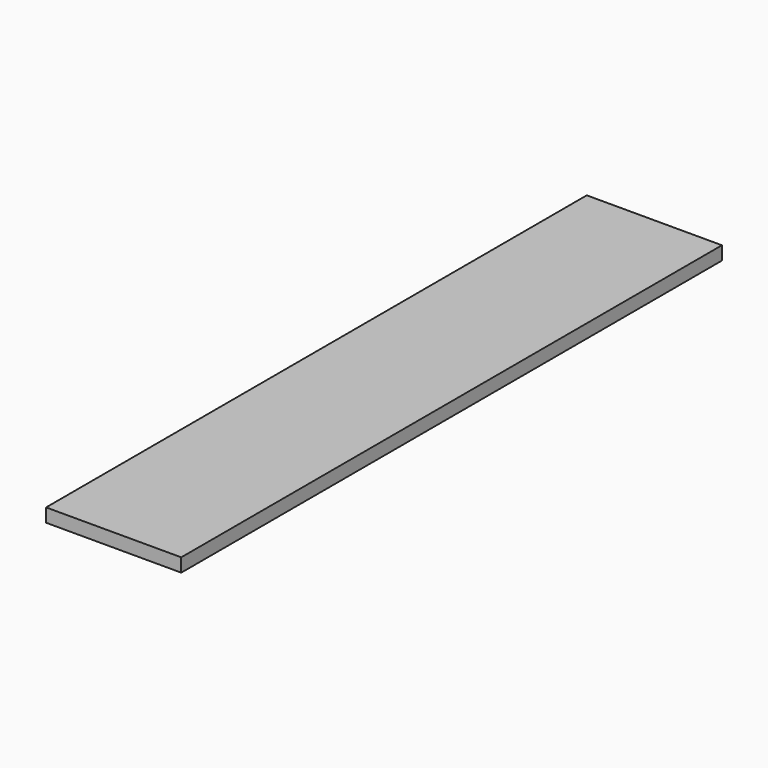
from build123d import *

# Parameters (mm, degrees)
F0_W     = 190.5
F0_H     = 19.05
F1_DEPTH = 209.55
F2_DEPTH = 457.2
F3_DEPTH = 476.25


with BuildPart() as f1:
    # F0 (on Front) → F1 (new body, symmetric)
    with BuildSketch(Plane.XZ):
        Rectangle(F0_W, F0_H)
    extrude(amount=F1_DEPTH, both=True)


with BuildPart() as f2:
    # F0 (on Front) → F2 (new body, symmetric)
    with BuildSketch(Plane.XZ):
        Rectangle(F0_W, F0_H)
    extrude(amount=F2_DEPTH, both=True)


with BuildPart() as f3:
    # F0 (on Front) → F3 (new body, symmetric)
    with BuildSketch(Plane.XZ):
        Rectangle(F0_W, F0_H)
    extrude(amount=F3_DEPTH, both=True)


solid = Compound([f1.part, f2.part, f3.part])
